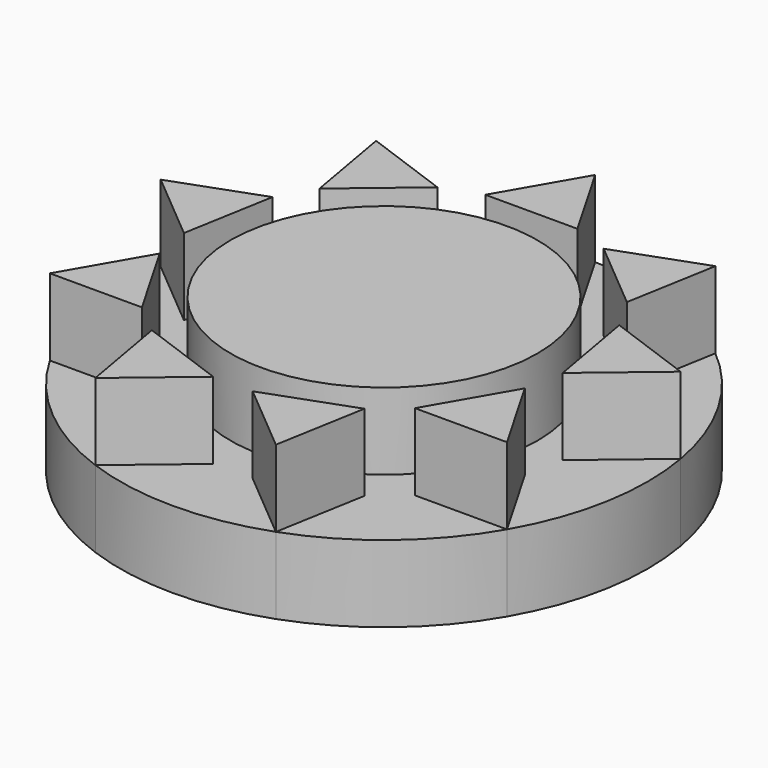
from build123d import *

# Parameters (mm, degrees)
F0_R     = 6.35
F1_DEPTH = 3.175
F2_DEPTH = 3.175


with BuildPart() as f1:
    # F0 (on Top) → F1 (new body)
    with BuildSketch(Plane.XY):
        with BuildLine():
            ThreePointArc((7.0189558069, 8.3648657991), (3.7347083778, 10.2610269363), (0, 10.9195567884))
            ThreePointArc((0, 10.9195567884), (-3.7347083778, 10.2610269363), (-7.0189558069, 8.3648657991))
            ThreePointArc((-7.0189558069, 8.3648657991), (-9.4566135768, 5.4597783942), (-10.7536641847, 1.8961611372))
            ThreePointArc((-10.7536641847, 1.8961611372), (-10.7536641847, -1.8961611372), (-9.4566135768, -5.4597783942))
            ThreePointArc((-9.4566135768, -5.4597783942), (-7.0189558069, -8.3648657991), (-3.7347083778, -10.2610269363))
            ThreePointArc((-3.7347083778, -10.2610269363), (0, -10.9195567884), (3.7347083778, -10.2610269363))
            ThreePointArc((3.7347083778, -10.2610269363), (7.0189558069, -8.3648657991), (9.4566135768, -5.4597783942))
            ThreePointArc((9.4566135768, -5.4597783942), (10.5474819136, -2.8261892609), (10.9195567884, 0))
            ThreePointArc((10.9195567884, 0), (10.8780045781, 0.9517020824), (10.7536641847, 1.8961611372))
            ThreePointArc((10.7536641847, 1.8961611372), (9.4566135768, 5.4597783942), (7.0189558069, 8.3648657991))
        make_face()
        Polygon((-0.8160790495, -7.8120061434), (-3.7347083778, -10.2610269363), (-4.3963079347, -6.5089093974), align=None, mode=Mode.SUBTRACT)
        Polygon((-5.6466135768, -5.4597783942), (-9.4566135768, -5.4597783942), (-7.5516135768, -2.1602216058), align=None, mode=Mode.SUBTRACT)
        Polygon((4.3963079347, -6.5089093974), (3.7347083778, -10.2610269363), (0.8160790495, -7.8120061434), align=None, mode=Mode.SUBTRACT)
        Polygon((7.5516135768, -2.1602216058), (9.4566135768, -5.4597783942), (5.6466135768, -5.4597783942), align=None, mode=Mode.SUBTRACT)
        Polygon((-7.8350348564, -0.5528596557), (-10.7536641847, 1.8961611372), (-7.1734352995, 3.1992578833), align=None, mode=Mode.SUBTRACT)
        Polygon((-6.35735625, 4.6127482601), (-7.0189558069, 8.3648657991), (-3.4387269217, 7.061769053), align=None, mode=Mode.SUBTRACT)
        Circle(F0_R, mode=Mode.SUBTRACT)
        Polygon((7.1734352995, 3.1992578833), (10.7536641847, 1.8961611372), (7.8350348564, -0.5528596557), align=None, mode=Mode.SUBTRACT)
        Polygon((3.4387269217, 7.061769053), (7.0189558069, 8.3648657991), (6.35735625, 4.6127482601), align=None, mode=Mode.SUBTRACT)
        Polygon((1.905, 7.62), (-1.905, 7.62), (0, 10.9195567884), align=None, mode=Mode.SUBTRACT)
        Circle(F0_R)
        Polygon((-3.4387269217, 7.061769053), (-7.0189558069, 8.3648657991), (-6.35735625, 4.6127482601), align=None)
        Polygon((0, 10.9195567884), (-1.905, 7.62), (1.905, 7.62), align=None)
        Polygon((6.35735625, 4.6127482601), (7.0189558069, 8.3648657991), (3.4387269217, 7.061769053), align=None)
        Polygon((7.8350348564, -0.5528596557), (10.7536641847, 1.8961611372), (7.1734352995, 3.1992578833), align=None)
        Polygon((5.6466135768, -5.4597783942), (9.4566135768, -5.4597783942), (7.5516135768, -2.1602216058), align=None)
        Polygon((0.8160790495, -7.8120061434), (3.7347083778, -10.2610269363), (4.3963079347, -6.5089093974), align=None)
        Polygon((-4.3963079347, -6.5089093974), (-3.7347083778, -10.2610269363), (-0.8160790495, -7.8120061434), align=None)
        Polygon((-7.5516135768, -2.1602216058), (-9.4566135768, -5.4597783942), (-5.6466135768, -5.4597783942), align=None)
        Polygon((-7.1734352995, 3.1992578833), (-10.7536641847, 1.8961611372), (-7.8350348564, -0.5528596557), align=None)
    extrude(amount=-F1_DEPTH)

    # F0 (on Top) → F2 (join)
    with BuildSketch(Plane.XY):
        Polygon((-7.1734352995, 3.1992578833), (-10.7536641847, 1.8961611372), (-7.8350348564, -0.5528596557), align=None)
        Polygon((0, 10.9195567884), (-1.905, 7.62), (1.905, 7.62), align=None)
        Polygon((6.35735625, 4.6127482601), (7.0189558069, 8.3648657991), (3.4387269217, 7.061769053), align=None)
        Polygon((7.8350348564, -0.5528596557), (10.7536641847, 1.8961611372), (7.1734352995, 3.1992578833), align=None)
        Polygon((5.6466135768, -5.4597783942), (9.4566135768, -5.4597783942), (7.5516135768, -2.1602216058), align=None)
        Polygon((0.8160790495, -7.8120061434), (3.7347083778, -10.2610269363), (4.3963079347, -6.5089093974), align=None)
        Polygon((-4.3963079347, -6.5089093974), (-3.7347083778, -10.2610269363), (-0.8160790495, -7.8120061434), align=None)
        Polygon((-7.5516135768, -2.1602216058), (-9.4566135768, -5.4597783942), (-5.6466135768, -5.4597783942), align=None)
        Polygon((-3.4387269217, 7.061769053), (-7.0189558069, 8.3648657991), (-6.35735625, 4.6127482601), align=None)
        Circle(F0_R)
    extrude(amount=F2_DEPTH)


solid = f1.part
